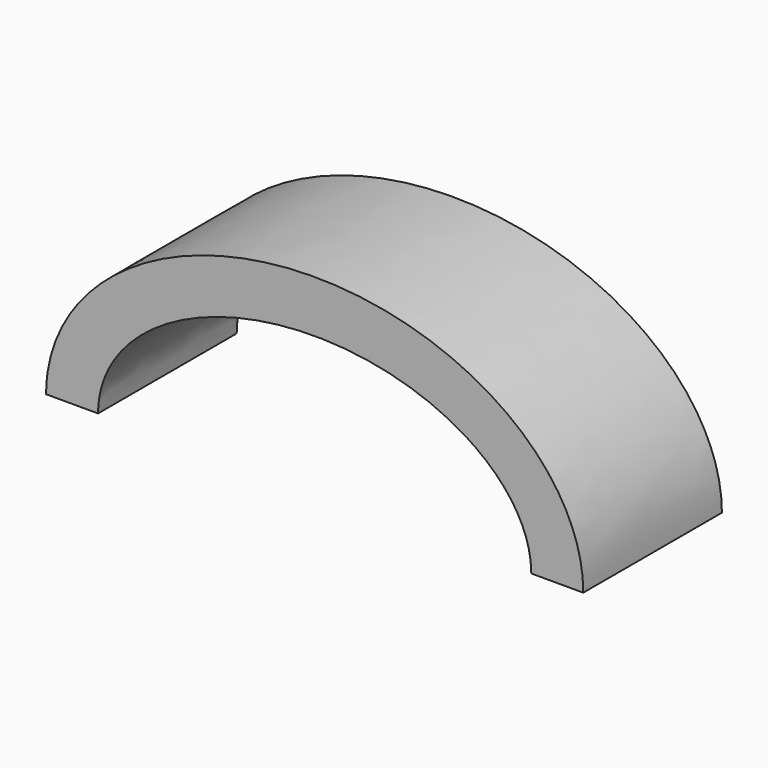
from build123d import *

# Parameters (mm, degrees)
F1_DEPTH = 1000


with BuildPart() as f1:
    # F0 (on Front) → F1 (new body)
    with BuildSketch(Plane.XZ):
        with BuildLine():
            Line((-300, 0), (0, 0))
            add(Edge.make_bspline(
                [(2500, 0), (2500, 800), (1250, 800), (0, 800), (0, 0)],
                knots=[3.1415926536, 3.1415926536, 3.1415926536, 4.7123889804, 4.7123889804, 6.2831853072, 6.2831853072, 6.2831853072], degree=2, weights=[1, 0.7071067812, 1, 0.7071067812, 1]))
            Line((2500, 0), (2800, 0))
            add(Edge.make_bspline(
                [(2800, 0), (2800, 1100), (1250, 1100), (-300, 1100), (-300, 0)],
                knots=[0, 0, 0, 1.5707963268, 1.5707963268, 3.1415926536, 3.1415926536, 3.1415926536], degree=2, weights=[1, 0.7071067812, 1, 0.7071067812, 1]))
        make_face()
    extrude(amount=F1_DEPTH)


solid = f1.part
